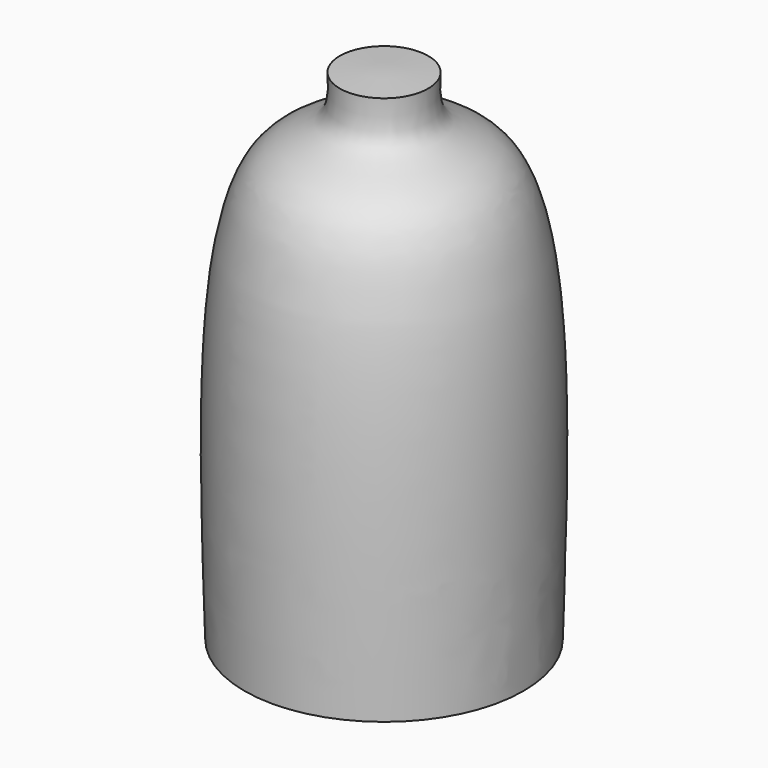
from build123d import *


with BuildPart() as f1:
    # F0 (on Front) → F1 (revolve)
    with BuildSketch(Plane.XZ):
        with BuildLine():
            Line((0, 55.8595135808), (-8.1116128713, 55.4908066988))
            add(Edge.make_bspline(
                [(-8.1116128713, 55.4908066988), (-7.9812087458, 52.688841361), (-7.6845178196, 46.3139073786), (-27.9838321267, 43.8165616704), (-26.6095414362, -2.7699204557), (-25.6253220141, -36.1335463822)],
                knots=[0, 0, 0, 0, 0.1820619957, 0.4142211139, 1, 1, 1, 1], degree=3))
            Line((-25.6253220141, -36.1335463822), (0, -36.1335463822))
            Line((0, -36.1335463822), (0, 55.8595135808))
        make_face()
    revolve(axis=Axis((0, 0, 9.0333856642), (0, 0, -1)))


solid = f1.part
